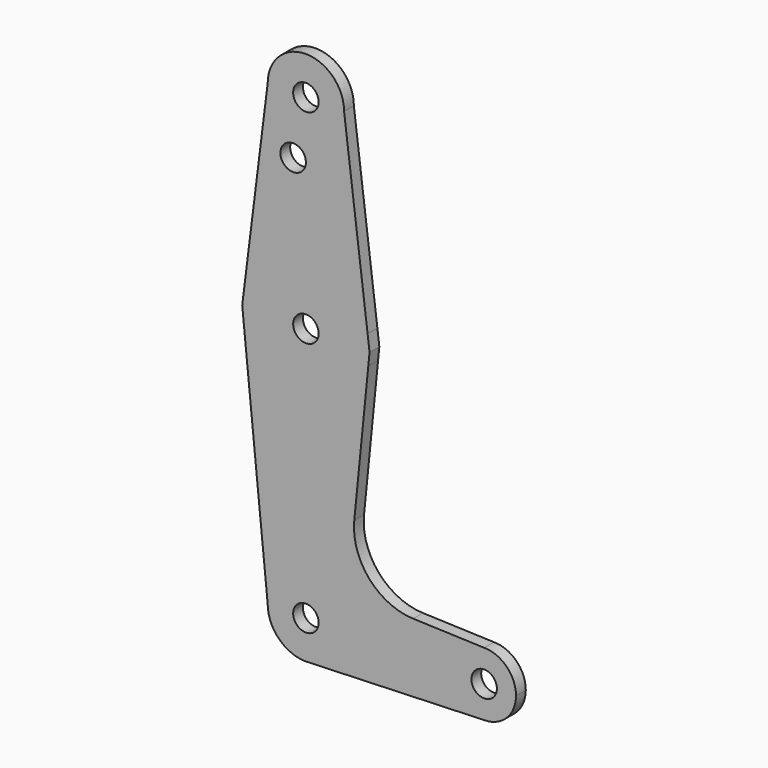
from build123d import *

# Parameters (mm, degrees)
F0_R     = 3.175
F1_DEPTH = 3.048


with BuildPart() as f1:
    # F0 (on Front) → F1 (new body)
    with BuildSketch(Plane.XZ):
        with BuildLine():
            ThreePointArc((-9.525, 82.14164), (0, 72.61664), (9.525, 82.14164))
            ThreePointArc((9.525, 82.14164), (0, 91.66664), (-9.525, 82.14164))
        make_face()
        with Locations((0, 82.14164)):
            Circle(F0_R, mode=Mode.SUBTRACT)
        with BuildLine():
            Line((15.386538, 35.249332), (9.525, 82.14164))
            ThreePointArc((9.525, 82.14164), (0, 72.61664), (-9.525, 82.14164))
            Line((-9.525, 82.14164), (-15.386538, 35.249332))
            ThreePointArc((-15.386538, 35.249332), (0, 47.21664), (15.386538, 35.249332))
        make_face()
        with Locations((-3.175, 67.86684)):
            Circle(F0_R, mode=Mode.SUBTRACT)
        with BuildLine():
            Line((15.875, 31.34164), (15.386538, 35.249332))
            ThreePointArc((15.386538, 35.249332), (0, 47.21664), (-15.386538, 35.249332))
            Line((-15.386538, 35.249332), (-15.875, 31.34164))
            Line((-15.875, 31.34164), (-15.560644, 28.198076))
            ThreePointArc((-15.560644, 28.198076), (0, 15.46664), (15.560644, 28.198076))
            Line((15.560644, 28.198076), (15.875, 31.34164))
        make_face()
        with Locations((0, 31.34164)):
            Circle(F0_R, mode=Mode.SUBTRACT)
        with BuildLine():
            Line((12.063263, -6.77573), (15.560644, 28.198076))
            ThreePointArc((15.560644, 28.198076), (0, 15.46664), (-15.560644, 28.198076))
            Line((-15.560644, 28.198076), (-9.525, -32.15836))
            ThreePointArc((-9.525, -32.15836), (0, -22.63336), (9.525, -32.15836))
            ThreePointArc((9.525, -32.15836), (6.97129, -38.648871), (0.67949, -41.659092))
            Line((0.67949, -41.659092), (44.45, -40.09586))
            ThreePointArc((44.45, -40.09586), (36.5125, -32.15836), (44.45, -24.22086))
            Line((44.45, -24.22086), (26.741266, -23.588405))
            ThreePointArc((26.741266, -23.588405), (15.761678, -18.360416), (12.063263, -6.77573))
        make_face()
        with BuildLine():
            ThreePointArc((9.525, -32.15836), (0, -22.63336), (-9.525, -32.15836))
            ThreePointArc((-9.525, -32.15836), (-6.735192, -38.893552), (0, -41.68336))
            Line((0, -41.68336), (0.67949, -41.659092))
            ThreePointArc((0.67949, -41.659092), (6.97129, -38.648871), (9.525, -32.15836))
        make_face()
        with Locations((0, -32.15836)):
            Circle(F0_R, mode=Mode.SUBTRACT)
        with BuildLine():
            ThreePointArc((52.3875, -32.15836), (50.06266, -26.5457), (44.45, -24.22086))
            ThreePointArc((44.45, -24.22086), (36.5125, -32.15836), (44.45, -40.09586))
            ThreePointArc((44.45, -40.09586), (50.06266, -37.77102), (52.3875, -32.15836))
        make_face()
        with Locations((44.45, -32.15836)):
            Circle(F0_R, mode=Mode.SUBTRACT)
    extrude(amount=F1_DEPTH)


solid = f1.part
